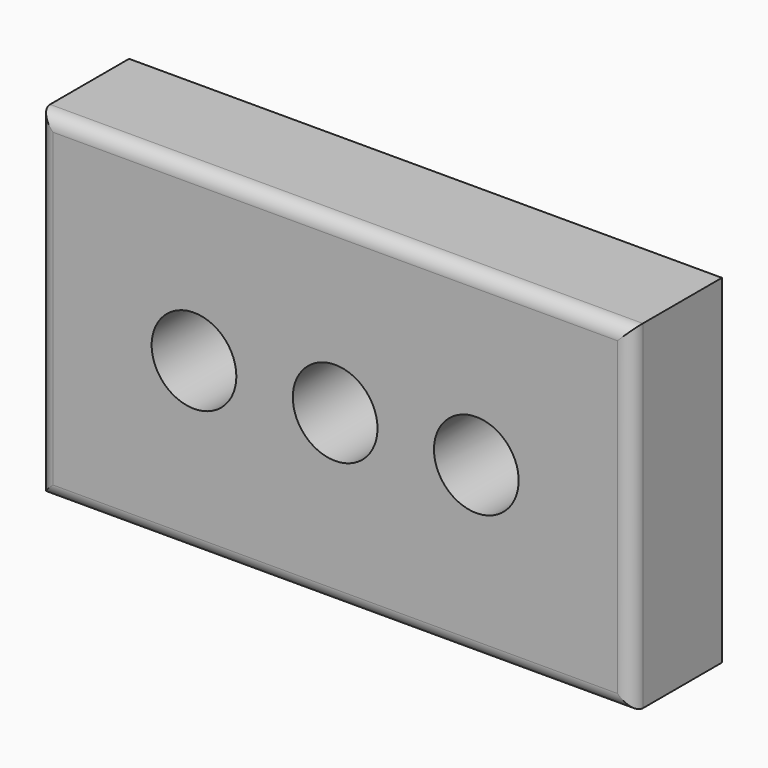
from build123d import *

# Parameters (mm, degrees)
F0_W     = 266.7
F0_H     = 152.4
F0_R     = 19.05
F1_DEPTH = 50.8
F2_R     = 6.35


with BuildPart() as f1:
    # F0 (on Front) → F1 (new body)
    with BuildSketch(Plane.XZ):
        Rectangle(F0_W, F0_H)
        with Locations((-63.5, 0)):
            Circle(F0_R, mode=Mode.SUBTRACT)
        with BuildLine():
            ThreePointArc((-19.05, 0), (0, 19.05), (19.05, 0))
            ThreePointArc((19.05, 0), (0, -19.05), (-19.05, 0))
        make_face(mode=Mode.SUBTRACT)
        with BuildLine():
            ThreePointArc((82.55, 0), (63.5, -19.05), (44.45, 0))
            ThreePointArc((44.45, 0), (63.5, 19.05), (82.55, 0))
        make_face(mode=Mode.SUBTRACT)
    extrude(amount=F1_DEPTH)

    # F2
    f2_edges = [f1.edges().sort_by_distance(p)[0] for p in [
        (0, -50.8, 76.2),
        (-133.35, -50.8, 0),
        (0, -50.8, -76.2),
        (133.35, -50.8, 0),
    ]]
    fillet(f2_edges, radius=F2_R)


solid = f1.part
